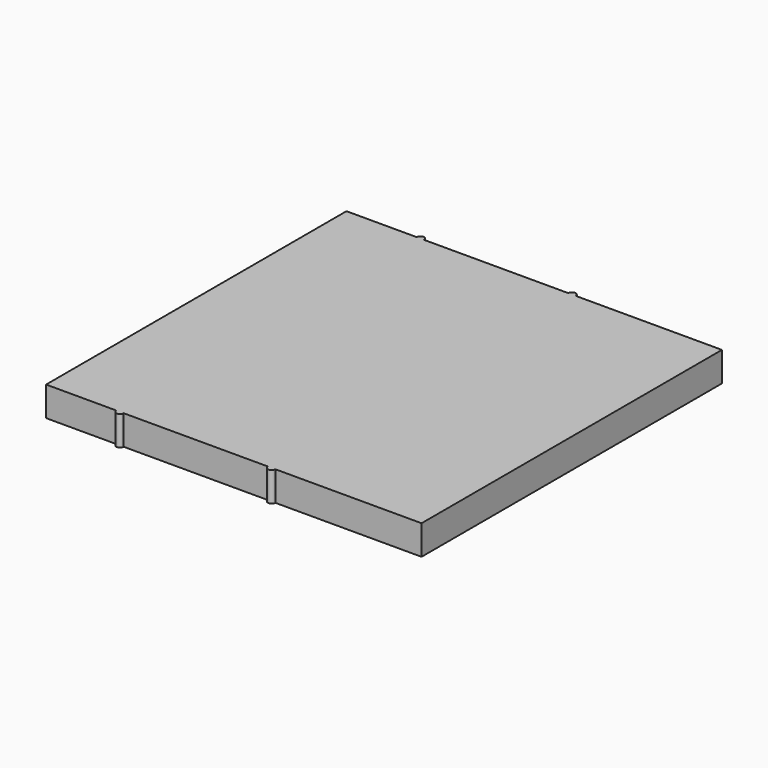
from build123d import *

# Parameters (mm, degrees)
F0_W     = 9.8903646775
F0_H     = 25.4
F0_W_2   = 0.25
F0_W_3   = 4.5096353225
F0_W_4   = 0.5
F0_W_5   = 4.25
F0_W_6   = 4.75
F1_DEPTH = 2


with BuildPart() as f1:
    # F0 (on Top) → F1 (new body)
    with BuildSketch(Plane.XY):
        with Locations((7.7548176613, 0)):
            Rectangle(F0_W, F0_H)
        with BuildLine():
            ThreePointArc((2.3096353225, -12.7), (2.5596353225, -12.95), (2.8096353225, -12.7))
            Line((2.8096353225, -12.7), (2.5596353225, -12.7))
            Line((2.5596353225, -12.7), (2.3096353225, -12.7))
        make_face()
        with Locations((2.6846353225, 0)):
            Rectangle(F0_W_2, F0_H)
        with Locations((2.4346353225, 0)):
            Rectangle(F0_W_2, F0_H)
        with Locations((0.0548176613, 0)):
            Rectangle(F0_W_3, F0_H)
        with BuildLine():
            Line((2.5596353225, 12.7), (2.8096353225, 12.7))
            ThreePointArc((2.8096353225, 12.7), (2.5596353225, 12.95), (2.3096353225, 12.7))
            Line((2.3096353225, 12.7), (2.5596353225, 12.7))
        make_face()
        with Locations((-2.45, 0)):
            Rectangle(F0_W_4, F0_H)
        with Locations((-2.95, 0)):
            Rectangle(F0_W_4, F0_H)
        with Locations((-5.325, 0)):
            Rectangle(F0_W_5, F0_H)
        with BuildLine():
            ThreePointArc((-7.95, -12.7), (-7.7, -12.95), (-7.45, -12.7))
            Line((-7.45, -12.7), (-7.7, -12.7))
            Line((-7.7, -12.7), (-7.95, -12.7))
        make_face()
        with Locations((-7.575, 0)):
            Rectangle(F0_W_2, F0_H)
        with Locations((-7.825, 0)):
            Rectangle(F0_W_2, F0_H)
        with Locations((-10.325, 0)):
            Rectangle(F0_W_6, F0_H)
        with BuildLine():
            Line((-7.7, 12.7), (-7.45, 12.7))
            ThreePointArc((-7.45, 12.7), (-7.7, 12.95), (-7.95, 12.7))
            Line((-7.95, 12.7), (-7.7, 12.7))
        make_face()
    extrude(amount=F1_DEPTH)


solid = f1.part
